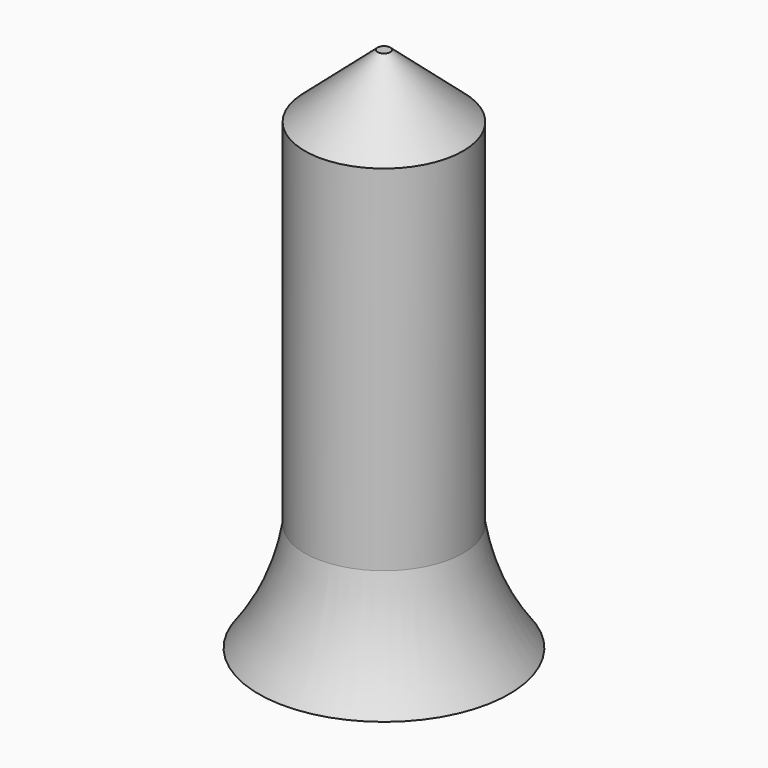
from build123d import *

# Parameters (mm, degrees)
F0_R     = 31.75
F0_R_2   = 11.43
F1_DEPTH = 185.71182
F4_R     = 31.75
F5_DEPTH = 25.4
F5_TAPER = 49


with BuildPart() as f1:
    # F0 (on Top) → F1 (new body)
    with BuildSketch(Plane.XY):
        Circle(F0_R)
        Circle(F0_R_2, mode=Mode.SUBTRACT)
    extrude(amount=F1_DEPTH)

    # F2 (on Front) → F3 (revolve)
    with BuildSketch(Plane.XZ):
        with BuildLine():
            ThreePointArc((-30.6478571147, 58.2644540342), (-35.6754691099, 27.5302272186), (-50.2341836691, 0))
            Line((-50.2341836691, 0), (-30.6478571147, 0))
            Line((-30.6478571147, 0), (-30.6478571147, 58.2644540342))
        make_face()
    revolve(axis=Axis((0, 0, 38.0581654608), (0, 0, -1)))

    # F4 (on face) → F5 (join)
    with BuildSketch(Plane.XY.offset(185.71182)):
        Circle(F4_R)
    extrude(amount=F5_DEPTH, taper=F5_TAPER)


solid = f1.part
